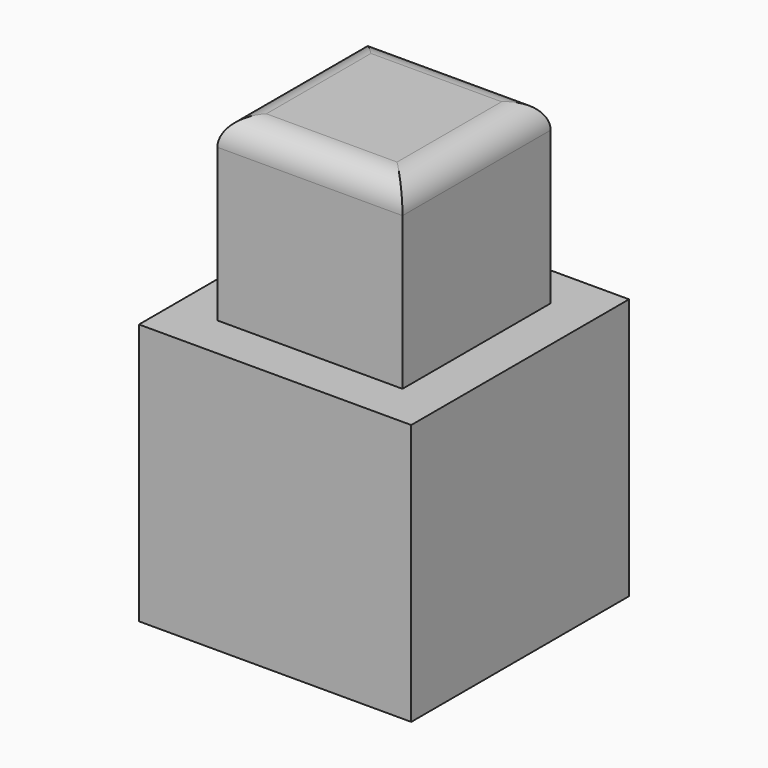
from build123d import *

# Parameters (mm, degrees)
F0_W     = 50
F0_H     = 50
F0_W_2   = 40
F0_H_2   = 40
F1_DEPTH = 30
F2_W     = 50
F2_H     = 50
F3_DEPTH = 18
F4_W     = 34
F4_H     = 34
F5_DEPTH = 33
F6_R     = 5


with BuildPart() as f1:
    # F0 (on Top) → F1 (new body)
    with BuildSketch(Plane.XY):
        with Locations((25, 25)):
            Rectangle(F0_W, F0_H)
        with Locations((25, 25)):
            Rectangle(F0_W_2, F0_H_2, mode=Mode.SUBTRACT)
    extrude(amount=F1_DEPTH)

    # F2 (on face) → F3 (join)
    with BuildSketch(Plane.XY.offset(30)):
        with Locations((25, 25)):
            Rectangle(F2_W, F2_H)
    extrude(amount=F3_DEPTH)

    # F4 (on face) → F5 (join)
    with BuildSketch(Plane.XY.offset(48)):
        with Locations((25, 25)):
            Rectangle(F4_W, F4_H)
    extrude(amount=F5_DEPTH)

    # F6
    f6_edges = [f1.edges().sort_by_distance(p)[0] for p in [
        (25, 8, 81),
        (8, 25, 81),
        (25, 42, 81),
        (42, 25, 81),
    ]]
    fillet(f6_edges, radius=F6_R)


solid = f1.part
